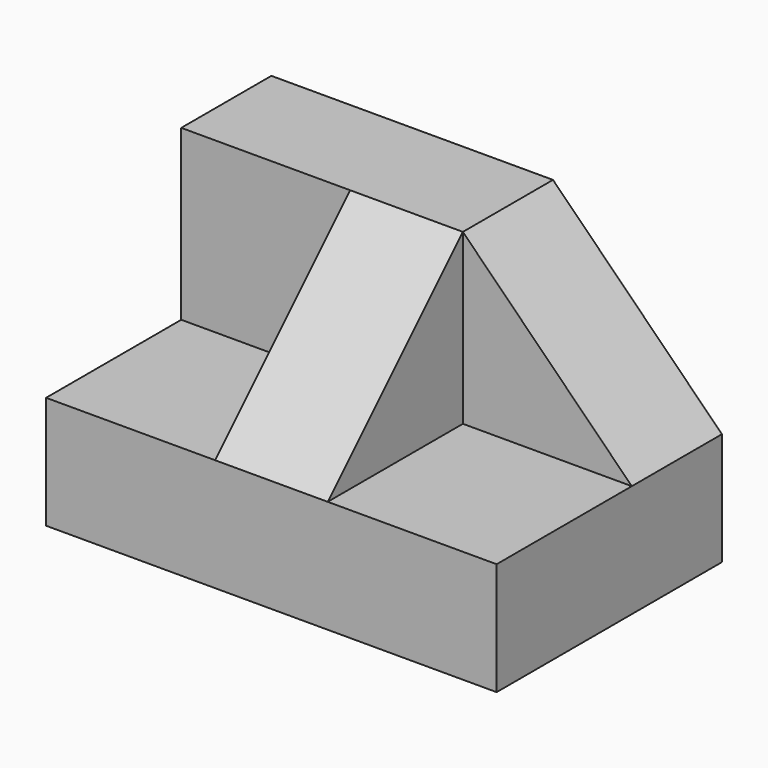
from build123d import *

# Parameters (mm, degrees)
F0_W      = 50.8
F0_H      = 31.75
F1_DEPTH  = 31.75
F3_W      = 19.05
F3_H      = 19.05
F4_DEPTH  = 19.05
F5_W      = 19.0453663528
F5_H      = 19.05
F6_DEPTH  = 19.05
F8_DEPTH  = 25.4
F10_DEPTH = 25.4


with BuildPart() as f1:
    # F0 (on Front) → F1 (new body)
    with BuildSketch(Plane.XZ):
        with Locations((25.4, 15.875)):
            Rectangle(F0_W, F0_H)
    extrude(amount=F1_DEPTH)

    # F3 (on face) → F4 (cut)
    with BuildSketch(Plane.XZ.offset(31.75)):
        with Locations((9.525, 22.225)):
            Rectangle(F3_W, F3_H)
    extrude(amount=-F4_DEPTH, mode=Mode.SUBTRACT)

    # F5 (on face) → F6 (cut)
    with BuildSketch(Plane.XZ.offset(31.75)):
        with Locations((41.2773168236, 22.225)):
            Rectangle(F5_W, F5_H)
    extrude(amount=-F6_DEPTH, mode=Mode.SUBTRACT)

    # F7 (on face) → F8 (cut)
    with BuildSketch(Plane.YZ.offset(31.7546336472)):
        Polygon((-31.75, 31.75), (-31.75, 12.7), (-12.7, 31.75), align=None)
    extrude(amount=-F8_DEPTH, mode=Mode.SUBTRACT)

    # F9 (on face) → F10 (cut)
    with BuildSketch(Plane.XZ.offset(12.7)):
        Polygon((50.8, 31.75), (31.7546336472, 31.75), (50.8, 12.7), align=None)
    extrude(amount=-F10_DEPTH, mode=Mode.SUBTRACT)


solid = f1.part
